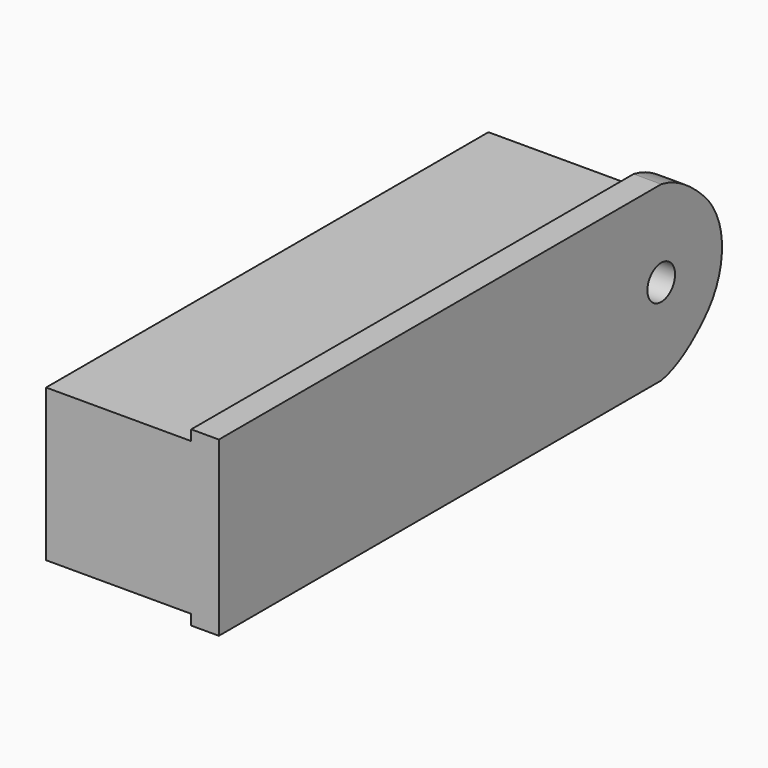
from build123d import *

# Parameters (mm, degrees)
F0_W      = 25
F0_H      = 25
F1_DEPTH  = 40
F2_W      = 21
F2_H      = 80
F3_DEPTH  = 1.5
F4_W      = 21
F4_H      = 80
F5_DEPTH  = 1.5
F7_DEPTH  = 21
F9_DEPTH  = 4
F10_R     = 2.5
F11_DEPTH = 4.001
F13_DEPTH = 4


with BuildPart() as f1:
    # F0 (on Front) → F1 (new body, symmetric)
    with BuildSketch(Plane.XZ):
        Rectangle(F0_W, F0_H)
    extrude(amount=F1_DEPTH, both=True)

    # F2 (on face) → F3 (cut)
    with BuildSketch(Plane.XY.offset(12.5)):
        with Locations((-2, 0)):
            Rectangle(F2_W, F2_H)
    extrude(amount=-F3_DEPTH, mode=Mode.SUBTRACT)

    # F4 (on face) → F5 (cut)
    with BuildSketch(Plane(origin=(0, 0, -12.5), x_dir=(1, 0, 0), z_dir=(0, 0, -1))):
        with Locations((-2, 0)):
            Rectangle(F4_W, F4_H)
    extrude(amount=-F5_DEPTH, mode=Mode.SUBTRACT)

    # F6 (on face) → F7 (cut)
    with BuildSketch(Plane(origin=(-12.5, 0, 0), x_dir=(0, -1, 0), z_dir=(-1, 0, 0))):
        with BuildLine():
            Line((-40, 11), (-40, -11))
            ThreePointArc((-40, -11), (-29, 0), (-40, 11))
        make_face()
    extrude(amount=-F7_DEPTH, mode=Mode.SUBTRACT)

    # F8 (on face) → F9 (join)
    with BuildSketch(Plane(origin=(8.5, 0, 0), x_dir=(0, -1, 0), z_dir=(-1, 0, 0))):
        with BuildLine():
            Line((-40, -11), (-40, 11))
            ThreePointArc((-40, 11), (-51, 0), (-40, -11))
        make_face()
    extrude(amount=-F9_DEPTH)

    # F10 (on face) → F11 (cut, through all)
    with BuildSketch(Plane(origin=(8.5, 0, 0), x_dir=(0, -1, 0), z_dir=(-1, 0, 0))):
        with Locations((-40, 0)):
            Circle(F10_R)
    extrude(amount=-F11_DEPTH, mode=Mode.SUBTRACT)

    # F12 (on face) → F13 (join)
    with BuildSketch(Plane.YZ.offset(12.5)):
        with BuildLine():
            ThreePointArc((48.771264901, 6.6381407063), (48.1972510553, 7.3351942808), (47.5679988761, 7.9828186132))
            add(Edge.make_bspline(
                [(47.5679988761, 7.9828186132), (48.3027333045, 7.2337960601), (48.7357424374, 6.6842950025), (48.771264901, 6.6381407063)],
                knots=[7.1076445711, 7.1076445711, 7.1076445711, 7.1076445711, 10.5497147991, 10.5497147991, 10.5497147991, 10.5497147991], degree=3))
        make_face()
        with BuildLine():
            add(Edge.make_bspline(
                [(40, 12.5), (43.2471029485, 11.9269308431), (46.0508214725, 9.5295000376), (47.5679988761, 7.9828186132)],
                knots=[0, 0, 0, 0, 7.1076445711, 7.1076445711, 7.1076445711, 7.1076445711], degree=3))
            Line((40, 12.5), (40, 11))
            ThreePointArc((40, 11), (44.0736344494, 10.2179010747), (47.5679988761, 7.9828186132))
        make_face()
        with BuildLine():
            add(Edge.make_bspline(
                [(47.5679988761, -7.9828186132), (48.3027333045, -7.2337960601), (48.7357424374, -6.6842950025), (48.771264901, -6.6381407063)],
                knots=[7.1076445711, 7.1076445711, 7.1076445711, 7.1076445711, 10.5497147991, 10.5497147991, 10.5497147991, 10.5497147991], degree=3))
            ThreePointArc((47.5679988761, -7.9828186132), (48.1972510553, -7.3351942808), (48.771264901, -6.6381407063))
        make_face()
        with BuildLine():
            Line((40, -11), (40, -12.5))
            add(Edge.make_bspline(
                [(40, -12.5), (43.2471029485, -11.9269308431), (46.0508214725, -9.5295000376), (47.5679988761, -7.9828186132)],
                knots=[0, 0, 0, 0, 7.1076445711, 7.1076445711, 7.1076445711, 7.1076445711], degree=3))
            ThreePointArc((47.5679988761, -7.9828186132), (44.0736344494, -10.2179010747), (40, -11))
        make_face()
    extrude(amount=-F13_DEPTH)


solid = f1.part
